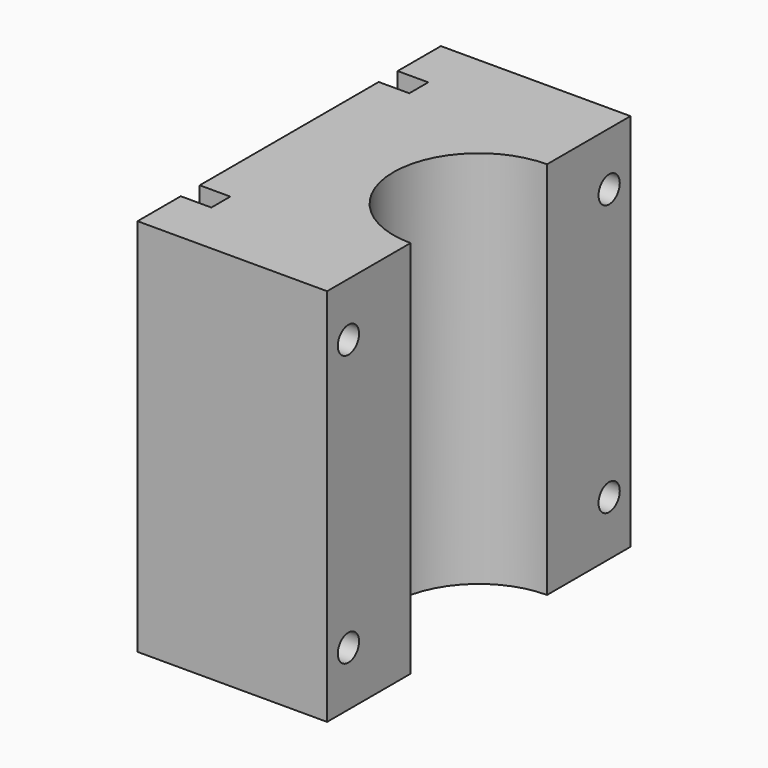
from build123d import *

# Parameters (mm, degrees)
F1_DEPTH = 50.8
F2_DEPTH = 50.8
F4_D     = 7.112


with BuildPart() as f1:
    # F0 (on Top) → F1 (new body)
    with BuildSketch(Plane.XY):
        with BuildLine():
            Line((-50.8, 0), (-22.86, 0))
            ThreePointArc((-22.86, 0), (-16.164461, 16.164461), (0, 22.86))
            Line((0, 22.86), (0, 50.8))
            Line((0, 50.8), (-50.8, 50.8))
            Line((-50.8, 50.8), (-50.8, 36.323187))
            Line((-50.8, 36.323187), (-42.600878, 36.323187))
            Line((-42.600878, 36.323187), (-42.600878, 29.973187))
            Line((-42.600878, 29.973187), (-50.8, 29.973187))
            Line((-50.8, 29.973187), (-50.8, 0))
        make_face()
        with BuildLine():
            ThreePointArc((0, -22.86), (-16.164461, -16.164461), (-22.86, 0))
            Line((-22.86, 0), (-50.8, 0))
            Line((-50.8, 0), (-50.8, -29.973187))
            Line((-50.8, -29.973187), (-42.600878, -29.973187))
            Line((-42.600878, -29.973187), (-42.600878, -36.323187))
            Line((-42.600878, -36.323187), (-50.8, -36.323187))
            Line((-50.8, -36.323187), (-50.8, -50.8))
            Line((-50.8, -50.8), (0, -50.8))
            Line((0, -50.8), (0, -22.86))
        make_face()
    extrude(amount=F1_DEPTH)

    # F1_face (on face) → F2 (join)
    with BuildSketch(Plane(origin=(-27.91822, 0, 50.8), x_dir=(1, 0, 0), z_dir=(0, 0, 1))):
        with BuildLine():
            Line((-14.682658, 36.323187), (-14.682658, 29.973187))
            Line((-14.682658, 29.973187), (-22.88178, 29.973187))
            Line((-22.88178, 29.973187), (-22.88178, -29.973187))
            Line((-22.88178, -29.973187), (-14.682658, -29.973187))
            Line((-14.682658, -29.973187), (-14.682658, -36.323187))
            Line((-14.682658, -36.323187), (-22.88178, -36.323187))
            Line((-22.88178, -36.323187), (-22.88178, -50.8))
            Line((-22.88178, -50.8), (27.91822, -50.8))
            Line((27.91822, -50.8), (27.91822, -22.86))
            ThreePointArc((27.91822, -22.86), (5.05822, 0), (27.91822, 22.86))
            Line((27.91822, 22.86), (27.91822, 50.8))
            Line((27.91822, 50.8), (-22.88178, 50.8))
            Line((-22.88178, 50.8), (-22.88178, 36.323187))
            Line((-22.88178, 36.323187), (-14.682658, 36.323187))
        make_face()
    extrude(amount=F2_DEPTH)

    # F4 (through all)
    with Locations(Plane(origin=(-50.8, 0, 0), x_dir=(0, -1, 0), z_dir=(-1, 0, 0))):
        with Locations((-43.662325, 87.244935), (43.662325, 87.244935), (43.662325, 14.645034), (-43.662325, 14.645034)):
            Hole(F4_D / 2)


solid = f1.part
